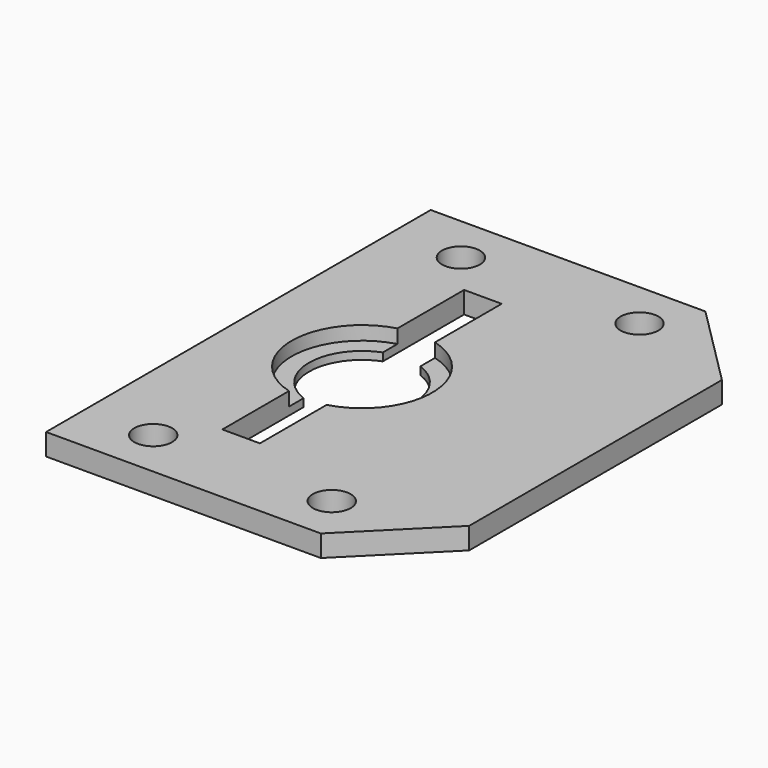
from build123d import *

# Parameters (mm, degrees)
F0_W     = 33.02
F0_H     = 44.45
F0_R     = 1.75
F1_DEPTH = 2
F2_SIZE  = 7.62
F3_R     = 6.5
F4_DEPTH = 1.27


with BuildPart() as f1:
    # F0 (on Top) → F1 (new body)
    with BuildSketch(Plane.XY):
        with Locations((16.51, 0)):
            Rectangle(F0_W, F0_H)
        with Locations((6.35, -17.78)):
            Circle(F0_R, mode=Mode.SUBTRACT)
        with Locations((22.86, -17.78)):
            Circle(F0_R, mode=Mode.SUBTRACT)
        with BuildLine():
            ThreePointArc((13.1675, 4.580534), (15.461886, 2.782821), (16.329, 0))
            ThreePointArc((16.329, 0), (15.461886, -2.782821), (13.1675, -4.580534))
            Line((13.1675, -4.580534), (13.1675, -13.97))
            Line((13.1675, -13.97), (11.43, -13.97))
            Line((11.43, -13.97), (9.6925, -13.97))
            Line((9.6925, -13.97), (9.6925, -4.580534))
            ThreePointArc((9.6925, -4.580534), (6.531, 0), (9.6925, 4.580534))
            Line((9.6925, 4.580534), (9.6925, 13.97))
            Line((9.6925, 13.97), (11.43, 13.97))
            Line((11.43, 13.97), (13.1675, 13.97))
            Line((13.1675, 13.97), (13.1675, 4.580534))
        make_face(mode=Mode.SUBTRACT)
        with Locations((6.35, 17.78)):
            Circle(F0_R, mode=Mode.SUBTRACT)
        with Locations((22.86, 17.78)):
            Circle(F0_R, mode=Mode.SUBTRACT)
    extrude(amount=F1_DEPTH)

    # F2
    f2_edges = [f1.edges().sort_by_distance(p)[0] for p in [
        (33.02, -22.225, 1),
        (33.02, 22.225, 1),
    ]]
    chamfer(f2_edges, length=F2_SIZE)

    # F3 (on face) → F4 (cut)
    with BuildSketch(Plane.XY.offset(2)):
        with Locations((11.43, 0)):
            Circle(F3_R)
    extrude(amount=-F4_DEPTH, mode=Mode.SUBTRACT)


solid = f1.part
